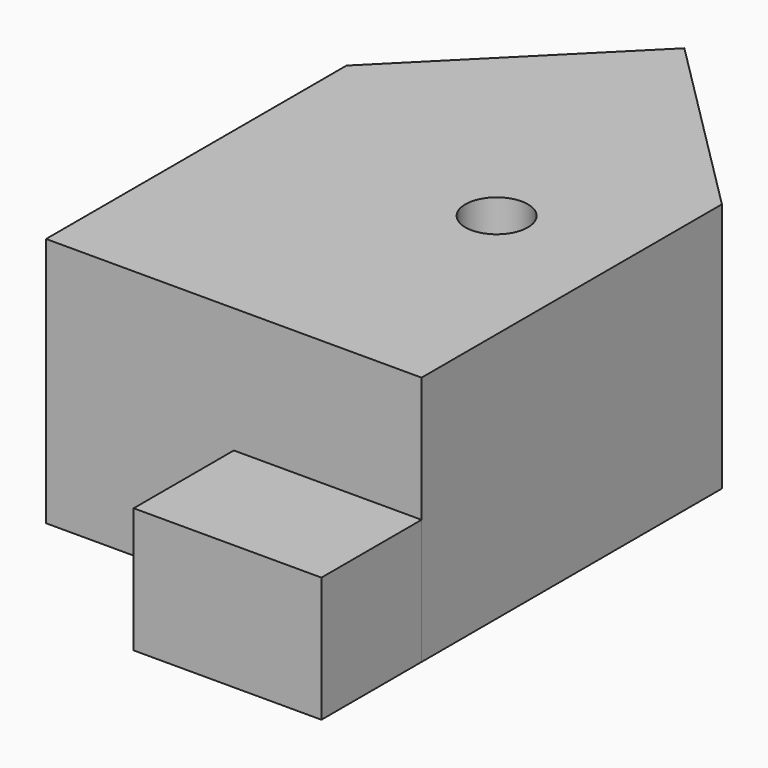
from build123d import *

# Parameters (mm, degrees)
F0_W     = 76.2
F0_H     = 76.2
F1_DEPTH = 50.8
F2_R     = 6.35
F3_DEPTH = 50.8
F4_W     = 38.1
F4_H     = 25.4
F5_DEPTH = 25.4


with BuildPart() as f1:
    # F0 (on Top) → F1 (new body)
    with BuildSketch(Plane.XY):
        with Locations((38.1, 38.1)):
            Rectangle(F0_W, F0_H)
        Polygon((38.1, 114.3), (0, 76.2), (76.2, 76.2), align=None)
    extrude(amount=F1_DEPTH)

    # F2 (on face) → F3 (cut)
    with BuildSketch(Plane(origin=(0, 0, 0), x_dir=(1, 0, 0), z_dir=(0, 0, -1))):
        with Locations((50.8, -50.8)):
            Circle(F2_R)
    extrude(amount=-F3_DEPTH, mode=Mode.SUBTRACT)


with BuildPart() as f5:
    # F4 (on face) → F5 (new body)
    with BuildSketch(Plane.XZ):
        with Locations((57.15, 12.7)):
            Rectangle(F4_W, F4_H)
    extrude(amount=F5_DEPTH)


solid = Compound([f1.part, f5.part])
